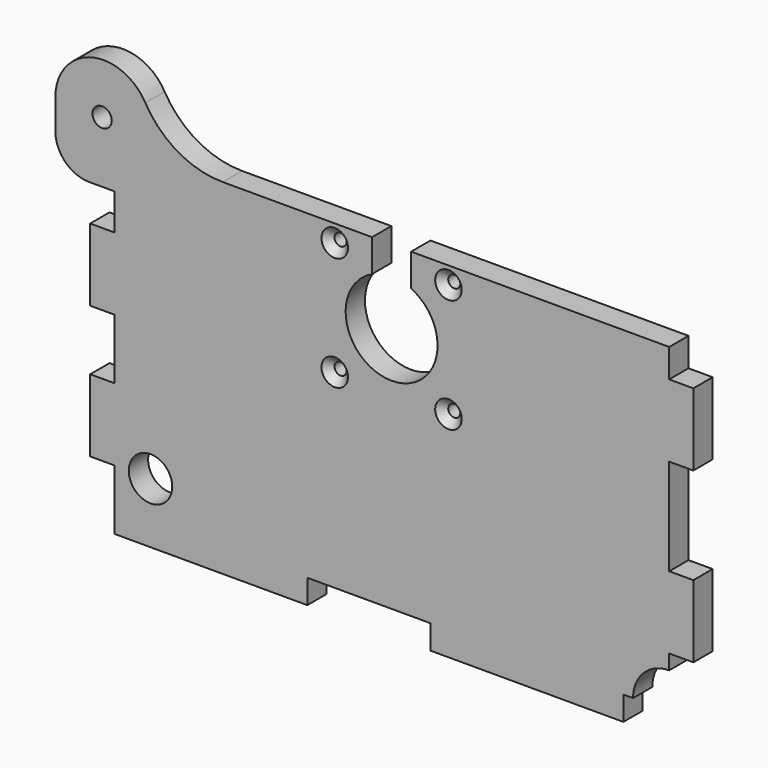
from build123d import *

# Parameters (mm, degrees)
SKETCH_R     = 9
SKETCH_R_2   = 4
PAD_DEPTH    = 10
SKETCH001_R  = 2.5
POCKET_DEPTH = 10.001
CHAMFER_SIZE = 3


with BuildPart() as part:
    # Sketch → Pad (new body)
    with BuildSketch(Plane.XZ):
        with BuildLine():
            Line((0, 0), (0, 25))
            Line((0, 25), (-10, 25))
            Line((-10, 25), (-10, 55))
            Line((-10, 55), (0, 55))
            Line((0, 55), (0, 80))
            Line((0, 80), (-10, 80))
            Line((-10, 80), (-10, 110))
            Line((-10, 110), (0, 110))
            Line((0, 110), (0, 125))
            Line((0, 125), (-10.439, 125))
            ThreePointArc((-24.439, 139), (-20.338495, 129.100505), (-10.439, 125))
            Line((-24.439, 139), (-24.439, 151.456))
            ThreePointArc((12.872585, 161.471439), (-9.623992, 170.772207), (-24.439, 151.456))
            ThreePointArc((12.872585, 161.471439), (26.413305, 147.948816), (44.899018, 143))
            Line((44.899018, 143), (230, 143))
            Line((230, 143), (230, 131.156))
            Line((230, 131.156), (240, 131.156))
            Line((240, 131.156), (240, 101.156))
            Line((240, 101.156), (230, 101.156))
            Line((230, 101.156), (230, 61.156))
            Line((230, 61.156), (240, 61.156))
            Line((240, 61.156), (240, 31.156))
            Line((240, 31.156), (230, 31.156))
            Line((230, 31.156), (230, 25))
            ThreePointArc((230, 25), (219.393398, 20.606602), (215, 10))
            Line((215, 10), (211, 10))
            Line((211, 10), (211, 0))
            Line((211, 0), (131, 0))
            Line((131, 0), (131, 10))
            Line((131, 10), (80, 10))
            Line((80, 10), (80, 0))
            Line((80, 0), (0, 0))
        make_face()
        with Locations((15, 25)):
            Circle(SKETCH_R, mode=Mode.SUBTRACT)
        with Locations((-5.055, 150.4)):
            Circle(SKETCH_R_2, mode=Mode.SUBTRACT)
    extrude(amount=PAD_DEPTH)

    # Sketch001 → Pocket (cut, through all)
    with BuildSketch(Plane.XZ):
        with Locations((91.36, 135.87)):
            Circle(SKETCH001_R)
        with Locations((138.5, 135.87)):
            Circle(SKETCH001_R)
        with Locations((91.36, 88.73)):
            Circle(SKETCH001_R)
        with Locations((138.5, 88.73)):
            Circle(SKETCH001_R)
        with BuildLine():
            ThreePointArc((106.83, 129.542172), (114.93, 93.25), (123.03, 129.542172))
            Line((123.03, 129.542172), (123.03, 177.012172))
            Line((106.83, 177.012172), (123.03, 177.012172))
            Line((106.83, 129.542172), (106.83, 177.012172))
        make_face()
    extrude(amount=POCKET_DEPTH, mode=Mode.SUBTRACT)

    # Chamfer
    chamfer_edges = [part.edges().sort_by_distance(p)[0] for p in [
        (136, -10, 135.87),
        (88.86, -10, 88.73),
        (88.86, -10, 135.87),
        (136, -10, 88.73),
    ]]
    chamfer(chamfer_edges, length=CHAMFER_SIZE)


solid = part.part
